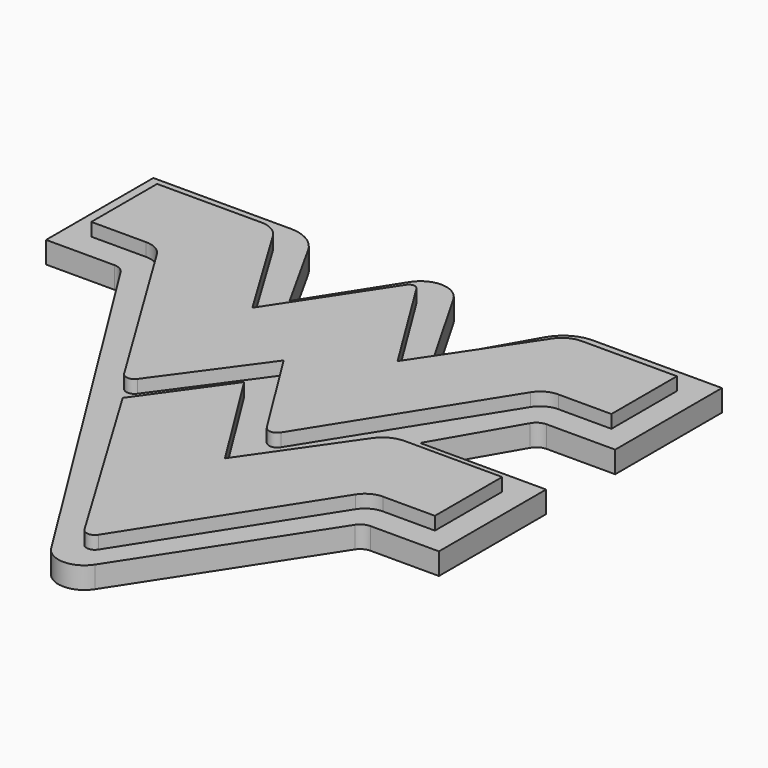
from build123d import *

# Parameters (mm, degrees)
F1_DEPTH = 5
F2_DEPTH = 8


with BuildPart() as f1:
    # F0 (on Top) → F1 (new body)
    with BuildSketch(Plane.XY):
        with BuildLine():
            Line((130.927835, 96.27907), (130.927835, 127))
            Line((130.927835, 127), (101.298798, 127))
            ThreePointArc((101.298798, 127), (96.934202, 125.825975), (93.74757, 122.620758))
            Line((93.74757, 122.620758), (83.045758, 103.917599))
            Line((83.045758, 103.917599), (71.55188, 123.936102))
            ThreePointArc((71.55188, 123.936102), (66.486141, 126.946973), (61.287686, 124.171523))
            Line((61.287686, 124.171523), (49.031252, 104.925849))
            Line((49.031252, 104.925849), (39.231733, 122.531272))
            ThreePointArc((39.231733, 122.531272), (36.038965, 125.800069), (31.63, 127))
            Line((31.63, 127), (0, 127))
            Line((0, 127), (0, 96.135363))
            Line((0, 96.135363), (15.758803, 96.135363))
            ThreePointArc((15.758803, 96.135363), (17.212438, 95.759661), (18.301985, 94.726658))
            Line((18.301985, 94.726658), (75.719816, 2.962426))
            ThreePointArc((75.719816, 2.962426), (80.755553, 0.145231), (85.838114, 2.877044))
            Line((85.838114, 2.877044), (112.663589, 44.182146))
            ThreePointArc((112.663589, 44.182146), (113.748116, 45.18463), (115.179556, 45.548159))
            Line((115.179556, 45.548159), (130.927835, 45.548159))
            Line((130.927835, 45.548159), (130.927835, 76.390088))
            Line((130.927835, 76.390088), (101.925887, 76.390088))
            Line((101.925887, 76.390088), (112.567477, 94.781535))
            ThreePointArc((112.567477, 94.781535), (113.665361, 95.877857), (115.164128, 96.27907))
            Line((115.164128, 96.27907), (130.927835, 96.27907))
        make_face()
        with BuildLine():
            Line((125.316835, 70.757158), (125.316835, 51.402792))
            Line((125.316835, 51.402792), (113.359052, 51.402792))
            ThreePointArc((113.359052, 51.402792), (110.861026, 50.76348), (108.977239, 49.002742))
            Line((108.977239, 49.002742), (82.66913, 7.831566))
            ThreePointArc((82.66913, 7.831566), (81.042106, 6.954802), (79.439663, 7.875723))
            Line((79.439663, 7.875723), (52.795318, 52.199101))
            Line((52.795318, 52.199101), (65.994707, 70.662869))
            Line((65.994707, 70.662869), (81.8499, 45.304554))
            Line((81.8499, 45.304554), (97.579151, 67.963731))
            ThreePointArc((97.579151, 67.963731), (99.905672, 70.016617), (102.91875, 70.757158))
            Line((102.91875, 70.757158), (125.316835, 70.757158))
        make_face(mode=Mode.SUBTRACT)
        with BuildLine():
            Line((5.578, 102.180675), (5.578, 121.115535))
            Line((5.578, 121.115535), (29.520625, 121.115535))
            ThreePointArc((29.520625, 121.115535), (32.37113, 120.366736), (34.485614, 118.313682))
            Line((34.485614, 118.313682), (49.068514, 94.164111))
            Line((49.068514, 94.164111), (65.093516, 118.450207))
            ThreePointArc((65.093516, 118.450207), (66.281596, 119.079019), (67.45166, 118.417285))
            Line((67.45166, 118.417285), (82.447141, 94.249807))
            Line((82.447141, 94.249807), (98.644611, 118.455415))
            ThreePointArc((98.644611, 118.455415), (100.732581, 120.345903), (103.464944, 121.029831))
            Line((103.464944, 121.029831), (125.337835, 121.029831))
            Line((125.337835, 121.029831), (125.337835, 102.176696))
            Line((125.337835, 102.176696), (113.102794, 102.176696))
            ThreePointArc((113.102794, 102.176696), (110.586002, 101.527054), (108.698062, 99.74045))
            Line((108.698062, 99.74045), (83.406572, 59.432146))
            ThreePointArc((83.406572, 59.432146), (81.795963, 58.541979), (80.186468, 59.434158))
            Line((80.186468, 59.434158), (66.281863, 81.65627))
            Line((66.281863, 81.65627), (50.252272, 59.611485))
            ThreePointArc((50.252272, 59.611485), (48.639729, 58.83039), (47.094636, 59.737635))
            Line((47.094636, 59.737635), (22.660728, 99.693541))
            ThreePointArc((22.660728, 99.693541), (20.767414, 101.516472), (18.224473, 102.180675))
            Line((18.224473, 102.180675), (5.578, 102.180675))
        make_face(mode=Mode.SUBTRACT)
    extrude(amount=F1_DEPTH)

    # F0 (on Top) → F2 (join)
    with BuildSketch(Plane.XY):
        with BuildLine():
            Line((29.520625, 121.115535), (5.578, 121.115535))
            Line((5.578, 121.115535), (5.578, 102.180675))
            Line((5.578, 102.180675), (18.224473, 102.180675))
            ThreePointArc((18.224473, 102.180675), (20.767414, 101.516472), (22.660728, 99.693541))
            Line((22.660728, 99.693541), (47.094636, 59.737635))
            ThreePointArc((47.094636, 59.737635), (48.639729, 58.83039), (50.252272, 59.611485))
            Line((50.252272, 59.611485), (66.281863, 81.65627))
            Line((66.281863, 81.65627), (80.186468, 59.434158))
            ThreePointArc((80.186468, 59.434158), (81.795963, 58.541979), (83.406572, 59.432146))
            Line((83.406572, 59.432146), (108.698062, 99.74045))
            ThreePointArc((108.698062, 99.74045), (110.586002, 101.527054), (113.102794, 102.176696))
            Line((113.102794, 102.176696), (125.337835, 102.176696))
            Line((125.337835, 102.176696), (125.337835, 121.029831))
            Line((125.337835, 121.029831), (103.464944, 121.029831))
            ThreePointArc((103.464944, 121.029831), (100.732581, 120.345903), (98.644611, 118.455415))
            Line((98.644611, 118.455415), (82.447141, 94.249807))
            Line((82.447141, 94.249807), (67.45166, 118.417285))
            ThreePointArc((67.45166, 118.417285), (66.281596, 119.079019), (65.093516, 118.450207))
            Line((65.093516, 118.450207), (49.068514, 94.164111))
            Line((49.068514, 94.164111), (34.485614, 118.313682))
            ThreePointArc((34.485614, 118.313682), (32.37113, 120.366736), (29.520625, 121.115535))
        make_face()
        with BuildLine():
            Line((113.359052, 51.402792), (125.316835, 51.402792))
            Line((125.316835, 51.402792), (125.316835, 70.757158))
            Line((125.316835, 70.757158), (102.91875, 70.757158))
            ThreePointArc((102.91875, 70.757158), (99.905672, 70.016617), (97.579151, 67.963731))
            Line((97.579151, 67.963731), (81.8499, 45.304554))
            Line((81.8499, 45.304554), (65.994707, 70.662869))
            Line((65.994707, 70.662869), (52.795318, 52.199101))
            Line((52.795318, 52.199101), (79.439663, 7.875723))
            ThreePointArc((79.439663, 7.875723), (81.042106, 6.954802), (82.66913, 7.831566))
            Line((82.66913, 7.831566), (108.977239, 49.002742))
            ThreePointArc((108.977239, 49.002742), (110.861026, 50.76348), (113.359052, 51.402792))
        make_face()
    extrude(amount=F2_DEPTH)


solid = f1.part
